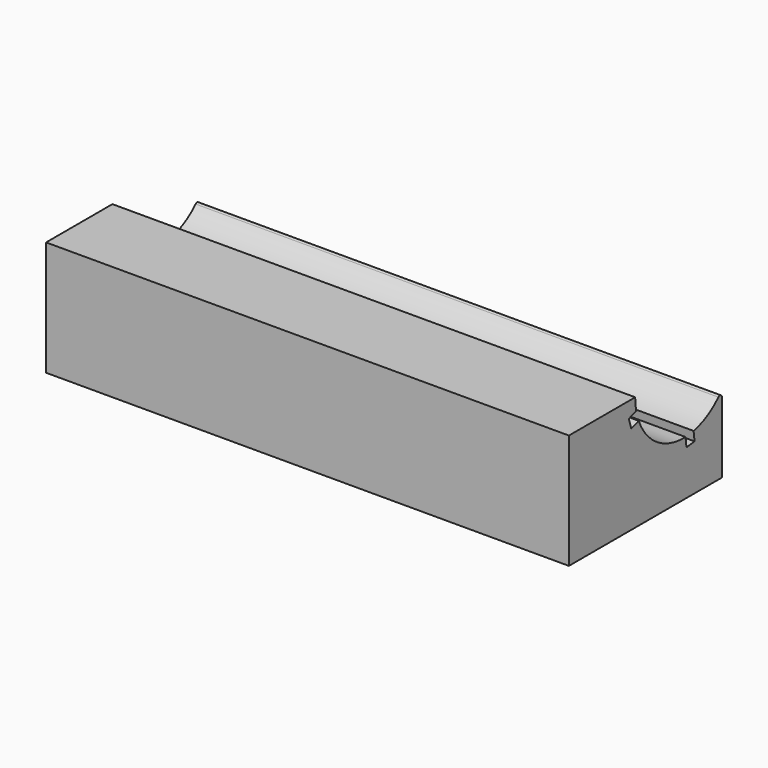
from build123d import *

# Parameters (mm, degrees)
F1_DEPTH = 205
F2_R     = 2
F4_DEPTH = 20
F6_DEPTH = 410.001


with BuildPart() as f1:
    # F0 (on Right) → F1 (new body, symmetric)
    with BuildSketch(Plane.YZ):
        with BuildLine():
            Line((-150, 0), (0, 0))
            Line((0, 0), (0, 60.8452405258))
            ThreePointArc((0, 60.8452405258), (-52.9110350074, 45.069498111), (-85, 90))
            Line((-85, 90), (-150, 90))
            Line((-150, 90), (-150, 0))
        make_face()
    extrude(amount=F1_DEPTH, both=True)

    # F2
    f2_edges = [f1.edges().sort_by_distance(p)[0] for p in [
        (0, 0, 60.845241),
    ]]
    fillet(f2_edges, radius=F2_R)

    # F3 (on face) → F4 (cut)
    with BuildSketch(Plane(origin=(0, 0, 0), x_dir=(1, 0, 0), z_dir=(0, 0, -1))):
        with BuildLine():
            ThreePointArc((110, 0), (99.7487373415, 24.7487373415), (75, 35))
            Line((75, 35), (-75, 35))
            ThreePointArc((-75, 35), (-99.7487373415, 24.7487373415), (-110, 0))
            Line((-110, 0), (110, 0))
        make_face()
        with BuildLine():
            ThreePointArc((75, -35), (99.7487373415, -24.7487373415), (110, 0))
            Line((110, 0), (-110, 0))
            ThreePointArc((-110, 0), (-99.7487373415, -24.7487373415), (-75, -35))
            Line((-75, -35), (75, -35))
        make_face()
    extrude(amount=-F4_DEPTH, mode=Mode.SUBTRACT)

    # F5 (on face) → F6 (cut, through all)
    with BuildSketch(Plane(origin=(-205, 0, 0), x_dir=(0, -1, 0), z_dir=(-1, 0, 0))):
        with BuildLine():
            ThreePointArc((35.701952676, 42.5340435067), (31.7112061883, 42.854057797), (27.7615834628, 43.508998254))
            Line((27.7615834628, 43.508998254), (26.8270015062, 35.8974390333))
            Line((26.8270015062, 35.8974390333), (34.7673707193, 34.9224842861))
            Line((34.7673707193, 34.9224842861), (35.701952676, 42.5340435067))
        make_face()
        with BuildLine():
            ThreePointArc((81.5936406798, 72.336454161), (82.9244759082, 76.1123440257), (83.9326143175, 79.9868922087))
            Line((83.9326143175, 79.9868922087), (78.6335187107, 81.6069883197))
            Line((78.6335187107, 81.6069883197), (76.294545073, 73.956550272))
            Line((76.294545073, 73.956550272), (81.5936406798, 72.336454161))
        make_face()
        with BuildLine():
            Line((91.2662483969, 77.7447752641), (83.9326143175, 79.9868922087))
            ThreePointArc((83.9326143175, 79.9868922087), (82.9244759082, 76.1123440257), (81.5936406798, 72.336454161))
            Line((81.5936406798, 72.336454161), (88.9272747591, 70.0943372164))
            Line((88.9272747591, 70.0943372164), (91.2662483969, 77.7447752641))
        make_face()
    extrude(amount=-F6_DEPTH, mode=Mode.SUBTRACT)


solid = f1.part
